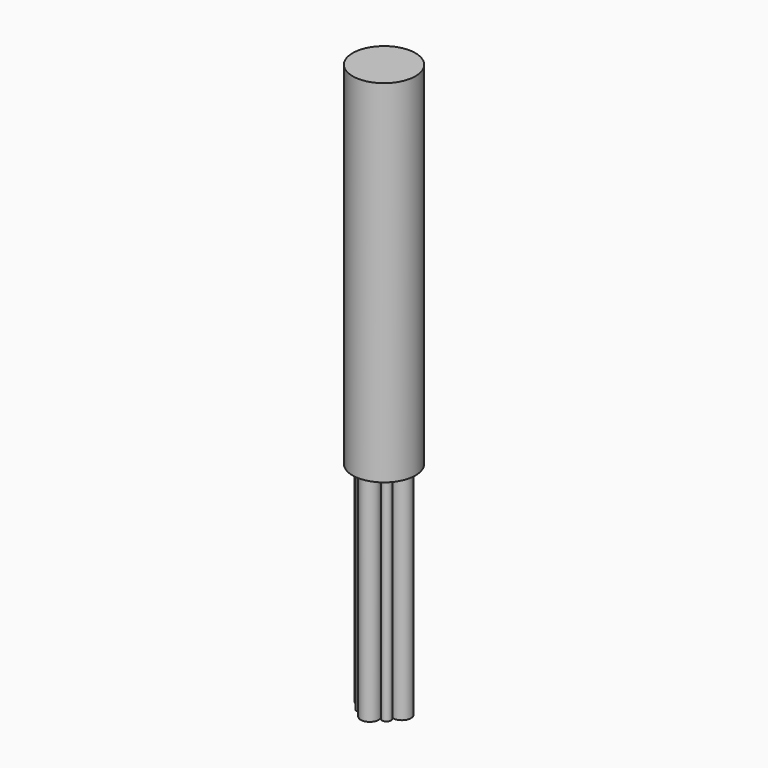
from build123d import *

# Parameters (mm, degrees)
F0_R     = 44.45
F1_DEPTH = 497.84
F2_R     = 12.7
F2_R_2   = 6.35
F3_DEPTH = 304.8


with BuildPart() as f1:
    # F0 (on Top) → F1 (new body)
    with BuildSketch(Plane.XY):
        Circle(F0_R)
    extrude(amount=-F1_DEPTH)

    # F2 (on face) → F3 (join)
    with BuildSketch(Plane(origin=(0, 0, -497.84), x_dir=(1, 0, 0), z_dir=(0, 0, -1))):
        with Locations((0, 25.4)):
            Circle(F2_R)
        with Locations((0, -25.4)):
            Circle(F2_R)
        with Locations((-25.4, 0)):
            Circle(F2_R)
        with Locations((25.4, 0)):
            Circle(F2_R)
        with Locations((-17.960512, 17.960512)):
            Circle(F2_R_2)
        with Locations((17.960512, 17.960512)):
            Circle(F2_R_2)
        with Locations((17.960512, -17.960512)):
            Circle(F2_R_2)
        with Locations((-17.960512, -17.960512)):
            Circle(F2_R_2)
    extrude(amount=F3_DEPTH)


solid = f1.part
